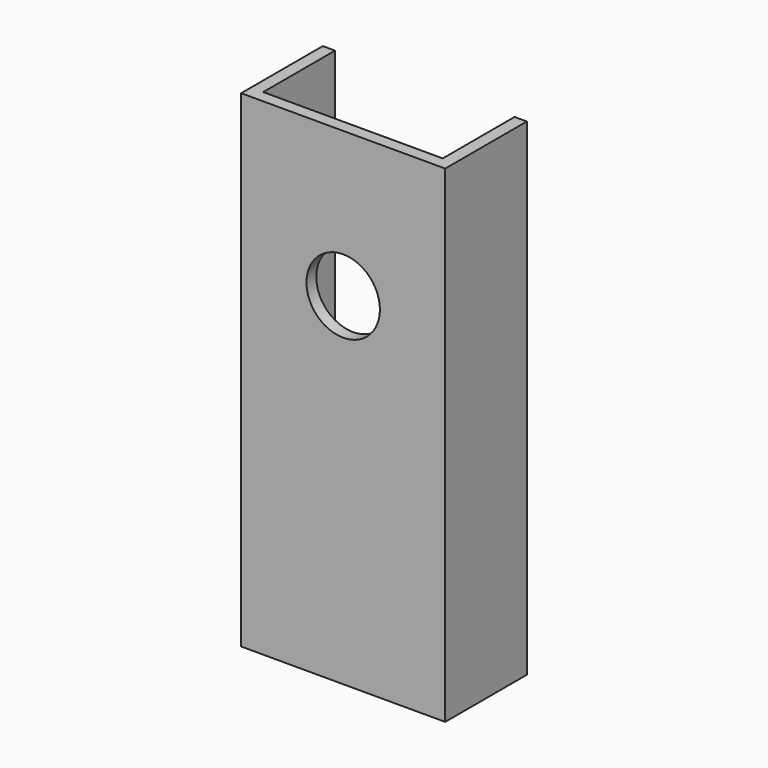
from build123d import *

# Parameters (mm, degrees)
PAD_DEPTH            = 238.75
SKETCH001_R          = 18
POCKET_DEPTH         = 6
BODY_ROLL_ANGLE      = 180
BODY_PLACEMENT_ANGLE = 90


with BuildPart() as part:
    # Sketch → Pad (new body)
    with BuildSketch(Plane.XY):
        Polygon((0, 50), (0, 0), (50, 0), (50, 6), (6, 6), (6, 50), align=None)
    pad = extrude(amount=PAD_DEPTH)

    # Mirrored: Pad across face of Pad
    add(pad.mirror(Plane(origin=(3, 50, 119.375), x_dir=(-1, 0, 0), z_dir=(0, 1, 0))))

    # Sketch001 (on Face5 of Pad) → Pocket (cut)
    with BuildSketch(Plane.YZ.offset(6)):
        with Locations((50, 71.25)):
            Circle(SKETCH001_R)
    extrude(amount=-POCKET_DEPTH, mode=Mode.SUBTRACT)


with BuildPart() as part_1:
    # Body roll: moved
    add(part.part.rotate(Axis((0, 0, 0), (1, 0, 0)), BODY_ROLL_ANGLE))


with BuildPart() as part_2:
    # Body placement: moved
    add(part_1.part.moved(Location((-50, 0, 238.75))).rotate(Axis((-50, 0, 238.75), (0, 0, 1)), BODY_PLACEMENT_ANGLE))


solid = part_2.part
